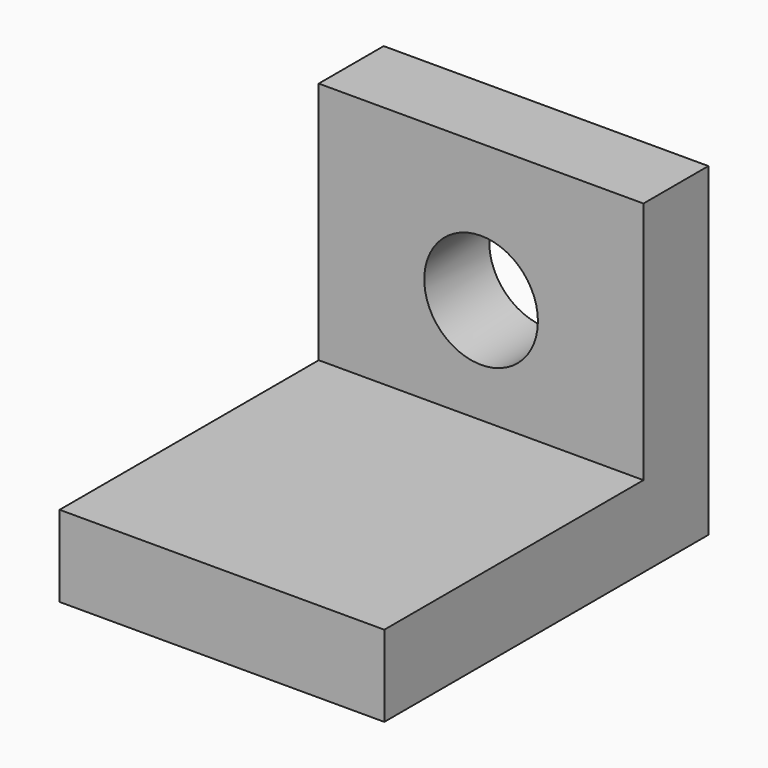
from build123d import *

# Parameters (mm, degrees)
F0_W     = 50.8
F0_H     = 50.8
F1_DEPTH = 12.7
F2_W     = 50.8
F2_H     = 12.7
F3_DEPTH = 50.8
F5_DEPTH = 12.7


with BuildPart() as f1:
    # F0 (on Top) → F1 (new body)
    with BuildSketch(Plane.XY):
        Rectangle(F0_W, F0_H)
    extrude(amount=F1_DEPTH)

    # F2 (on Top) → F3 (join)
    with BuildSketch(Plane.XY):
        with Locations((0, 31.622227)):
            Rectangle(F2_W, F2_H)
    extrude(amount=F3_DEPTH)

    # F4 (on face) → F5 (cut)
    with BuildSketch(Plane.XZ.offset(-25.272227)):
        with BuildLine():
            ThreePointArc((0, 38.1), (-6.286179, 22.923821), (8.89, 29.21))
            ThreePointArc((8.89, 29.21), (6.286179, 35.496179), (0, 38.1))
        make_face()
    extrude(amount=-F5_DEPTH, mode=Mode.SUBTRACT)


solid = f1.part
